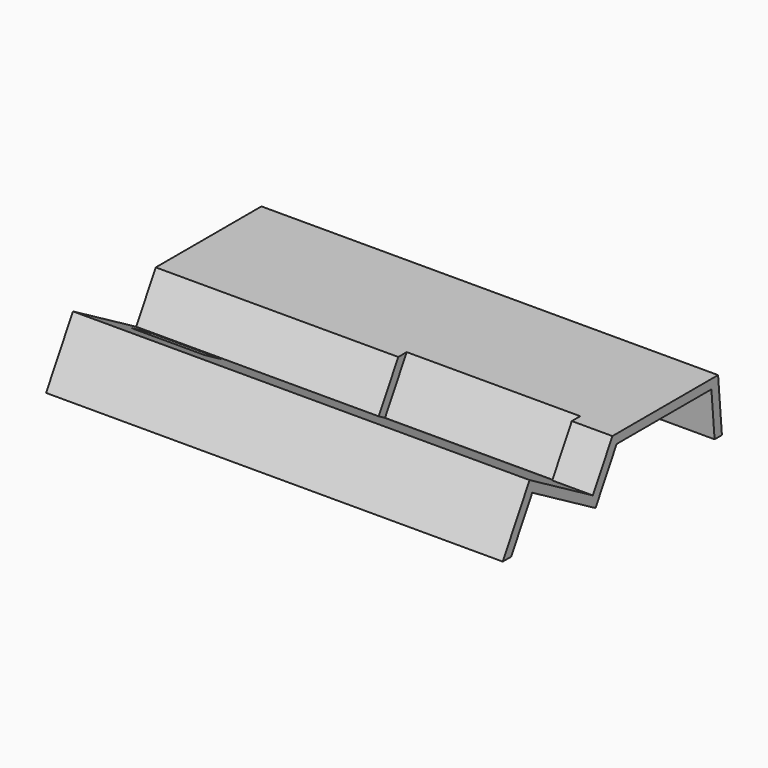
from build123d import *

# Parameters (mm, degrees)
F1_DEPTH = 50
F2_W     = 38
F2_H     = 2
F3_DEPTH = 26.3255735195
F4_T     = -2
F5_W     = 16
F5_H     = 5
F6_DEPTH = 12.7330508076


with BuildPart() as f1:
    # F0 (on Right) → F1 (new body, symmetric)
    with BuildSketch(Plane.YZ):
        Polygon((-22.6491470389, 12.7320508076), (-30, 0), (30, 0), (28.9501360377, 12), (0.0222139979, 12), (-5.3286389632, 2.7320508076), align=None)
    extrude(amount=F1_DEPTH, both=True)

    # F2 (on face) → F3 (cut, through all)
    with BuildSketch(Plane(origin=(0, -0.1491470389, -0.2583302492), x_dir=(1, 0, 0), z_dir=(0, 0.5, 0.8660254038))):
        with Locations((22.1086753011, -4.9807621135)):
            Rectangle(F2_W, F2_H)
    extrude(amount=F3_DEPTH, mode=Mode.SUBTRACT)

    # F4
    f4_openings = [f1.faces().sort_by_distance(p)[0] for p in [
        (0, 0, 0),
        (50, 3.195409, 5.336498),
        (-50, 3.195409, 5.336498),
    ]]
    offset(amount=F4_T, openings=f4_openings, kind=Kind.INTERSECTION)

    # F5 (on Top) → F6 (cut, through all)
    with BuildSketch(Plane.XY):
        with Locations((-37.7319419413, -9.4969761558)):
            Rectangle(F5_W, F5_H)
    extrude(amount=F6_DEPTH, mode=Mode.SUBTRACT)


solid = f1.part
